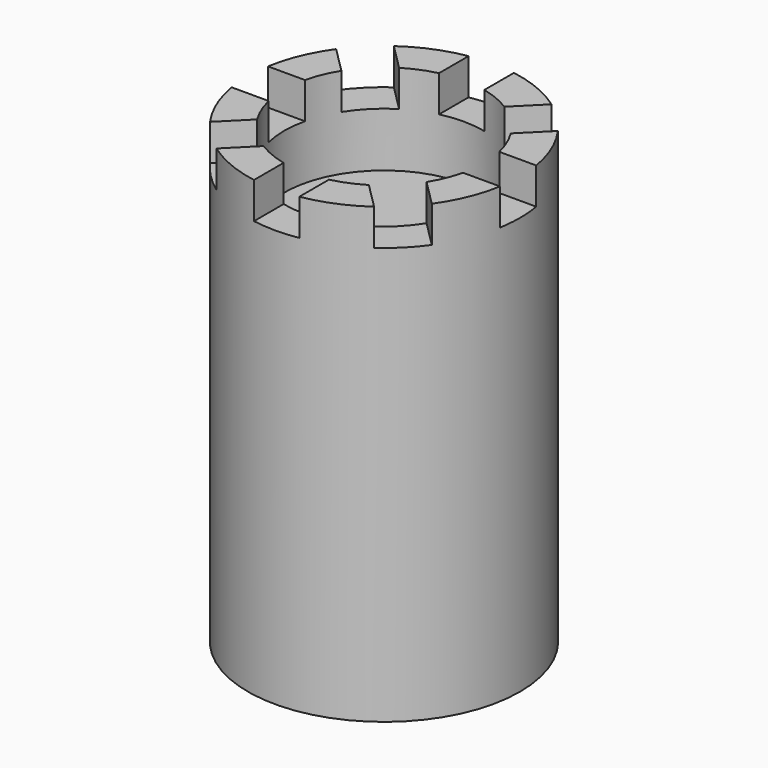
from build123d import *

# Parameters (mm, degrees)
CYLINDER001_R     = 22
CYLINDER001_DEPTH = 20
BOX_W             = 20
BOX_H             = 10
BOX_DEPTH         = 10
ARRAY_COUNT       = 8
CYLINDER_R        = 30
CYLINDER_DEPTH    = 100


with BuildPart() as cilindre001:
    # Cylinder001 → Cylinder001 (new body)
    with BuildSketch(Plane.XY.offset(80)):
        Circle(CYLINDER001_R)
    extrude(amount=CYLINDER001_DEPTH)


with BuildPart() as array:
    # Box → Box (new body)
    with BuildSketch(Plane(origin=(18, -5, 0), x_dir=(1, 0, 0), z_dir=(0, 0, 1))):
        with Locations((10, 5)):
            Rectangle(BOX_W, BOX_H)
    extrude(amount=BOX_DEPTH)

    # Array: Array ×8 about axis
    array_axis = Axis((0, 0, 0), (0, 0, 1))


with BuildPart() as array_1:
    add(array.part)
    for i in range(1, ARRAY_COUNT):
        add(array.part.rotate(array_axis, i * 360 / ARRAY_COUNT))


with BuildPart() as array_2:
    # Array placement: moved
    add(array_1.part.moved(Location((0, 0, 92))))


with BuildPart() as cut001:
    # Cylinder → Cylinder (new body)
    with BuildSketch(Plane.XY):
        Circle(CYLINDER_R)
    extrude(amount=CYLINDER_DEPTH)

    # Cut: cut Array
    add(array_2.part, mode=Mode.SUBTRACT)

    # Cut001: cut Cilindre001
    add(cilindre001.part, mode=Mode.SUBTRACT)


solid = cut001.part
